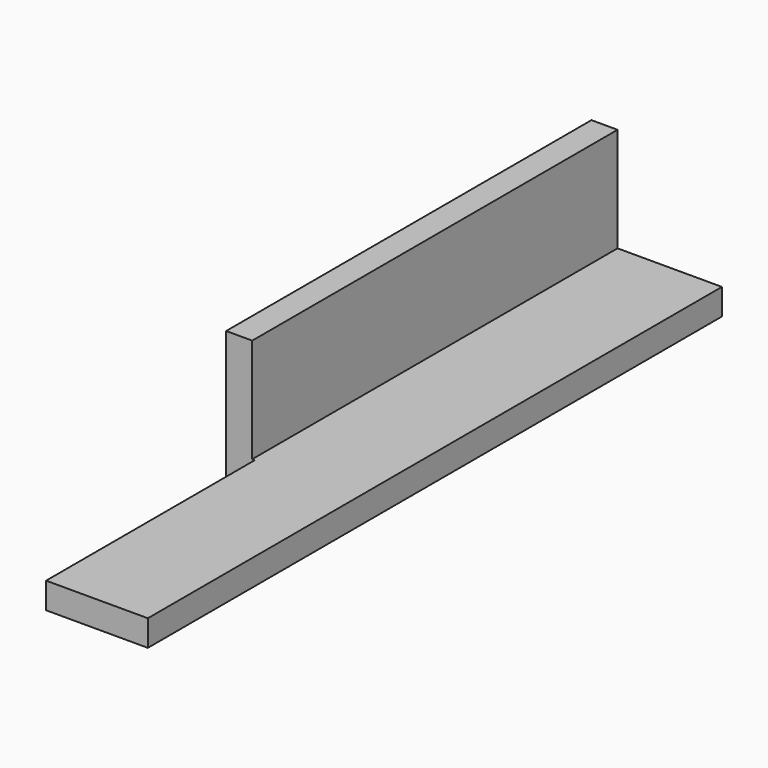
from build123d import *

# Parameters (mm, degrees)
F1_DEPTH = 55
F2_W     = 20
F2_H     = 10
F3_DEPTH = 2.2


with BuildPart() as f1:
    # F0 (on Front) → F1 (new body)
    with BuildSketch(Plane.XZ):
        Polygon((0, 10), (0, 0), (10, 0), (10, 2), (2, 2), (2, 10), align=None)
    extrude(amount=F1_DEPTH)

    # F2 (on face) → F3 (cut)
    with BuildSketch(Plane(origin=(0, 0, 0), x_dir=(0, -1, 0), z_dir=(-1, 0, 0))):
        with Locations((45, 5)):
            Rectangle(F2_W, F2_H)
    extrude(amount=-F3_DEPTH, mode=Mode.SUBTRACT)


solid = f1.part
